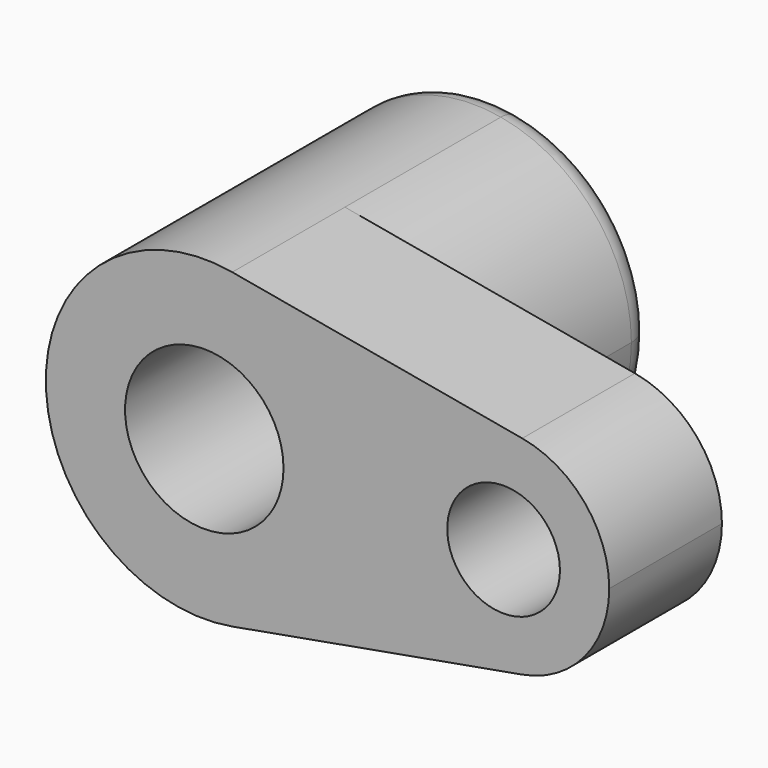
from build123d import *

# Parameters (mm, degrees)
F0_R     = 14.2875
F0_R_2   = 10.16
F1_DEPTH = 25.4
F2_DEPTH = 40.2336
F3_R     = 5.08


with BuildPart() as f1:
    # F0 (on Front) → F1 (new body)
    with BuildSketch(Plane.XZ):
        with BuildLine():
            ThreePointArc((5.042647, -28.126541), (21.916025, -18.336262), (28.575, 0))
            ThreePointArc((28.575, 0), (21.916025, 18.336262), (5.042647, 28.126541))
            ThreePointArc((5.042647, 28.126541), (-28.575, 0), (5.042647, -28.126541))
        make_face()
        Circle(F0_R, mode=Mode.SUBTRACT)
        with BuildLine():
            ThreePointArc((5.042647, 28.126541), (21.916025, 18.336262), (28.575, 0))
            ThreePointArc((28.575, 0), (21.916025, -18.336262), (5.042647, -28.126541))
            Line((5.042647, -28.126541), (57.336765, -18.751028))
            ThreePointArc((57.336765, -18.751028), (34.925, 0), (57.336765, 18.751028))
            Line((57.336765, 18.751028), (5.042647, 28.126541))
        make_face()
        with BuildLine():
            ThreePointArc((73.025, 0), (68.585683, 12.224174), (57.336765, 18.751028))
            ThreePointArc((57.336765, 18.751028), (34.925, 0), (57.336765, -18.751028))
            ThreePointArc((57.336765, -18.751028), (68.585683, -12.224174), (73.025, 0))
        make_face()
        with Locations((53.975, 0)):
            Circle(F0_R_2, mode=Mode.SUBTRACT)
    extrude(amount=F1_DEPTH)

    # F0 (on Front) → F2 (join)
    with BuildSketch(Plane.XZ):
        with BuildLine():
            ThreePointArc((5.042647, -28.126541), (21.916025, -18.336262), (28.575, 0))
            ThreePointArc((28.575, 0), (21.916025, 18.336262), (5.042647, 28.126541))
            ThreePointArc((5.042647, 28.126541), (-28.575, 0), (5.042647, -28.126541))
        make_face()
        Circle(F0_R, mode=Mode.SUBTRACT)
    extrude(amount=-F2_DEPTH)

    # F3
    f3_edges = [f1.edges().sort_by_distance(p)[0] for p in [
        (-5.042647, 40.2336, 28.126541),
    ]]
    fillet(f3_edges, radius=F3_R)


solid = f1.part
